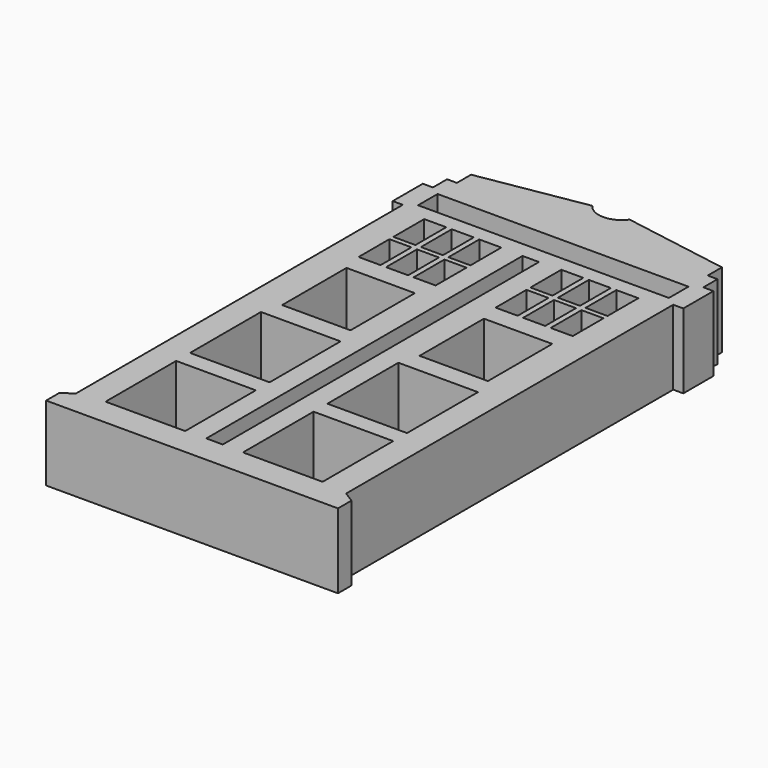
from build123d import *

# Parameters (mm, degrees)
F0_W     = 6.217202
F0_H     = 6.892985
F0_H_2   = 6.926774
F0_W_2   = 5.338685
F0_H_3   = 6.28478
F0_W_3   = 6.217203
F0_W_4   = 1.721302
F0_H_4   = 3.012278
F0_W_5   = 1.721301
F1_DEPTH = 5.842
F2_DEPTH = 3.175


with BuildPart() as f1:
    # F0 (on Top) → F1 (new body)
    with BuildSketch(Plane.XY):
        with BuildLine():
            ThreePointArc((-3.276264, 19.408396), (-4.734943, 18.662064), (-6.193622, 19.408396))
            Line((-6.193622, 19.408396), (-7.051337, 19.263395))
            ThreePointArc((-7.051337, 19.263395), (-4.734943, 17.844209), (-2.41855, 19.263395))
            Line((-2.41855, 19.263395), (-3.276264, 19.408396))
        make_face()
        with BuildLine():
            ThreePointArc((-2.41855, 19.263395), (-4.734943, 17.844209), (-7.051337, 19.263395))
            Line((-7.051337, 19.263395), (-14.532115, 17.998736))
            Line((-14.532115, 17.998736), (-14.532115, 16.612969))
            Line((-14.532115, 16.612969), (-15.296676, 16.612969))
            Line((-15.296676, 16.612969), (-15.296676, 15.227202))
            Line((-15.296676, 15.227202), (-16.085131, 15.227202))
            Line((-16.085131, 15.227202), (-16.085131, 12.288421))
            Line((-16.085131, 12.288421), (-15.296676, 12.288421))
            Line((-15.296676, 12.288421), (-15.296676, -19.651944))
            Line((-15.296676, -19.651944), (-16.13486, -20.17758))
            Line((-16.13486, -20.17758), (-16.13486, -21.491669))
            Line((-16.13486, -21.491669), (-4.734943, -21.491669))
            Line((-4.734943, -21.491669), (6.664974, -21.491669))
            Line((6.664974, -21.491669), (6.664974, -20.17758))
            Line((6.664974, -20.17758), (5.82679, -19.651944))
            Line((5.82679, -19.651944), (5.82679, 12.288421))
            Line((5.82679, 12.288421), (6.615245, 12.288421))
            Line((6.615245, 12.288421), (6.615245, 15.227202))
            Line((6.615245, 15.227202), (5.82679, 15.227202))
            Line((5.82679, 15.227202), (5.82679, 16.612969))
            Line((5.82679, 16.612969), (5.062229, 16.612969))
            Line((5.062229, 16.612969), (5.062229, 17.998736))
            Line((5.062229, 17.998736), (-2.41855, 19.263395))
        make_face()
        with Locations((-10.101553, -15.893294)):
            Rectangle(F0_W, F0_H, mode=Mode.SUBTRACT)
        with Locations((-10.101553, -7.63185)):
            Rectangle(F0_W, F0_H_2, mode=Mode.SUBTRACT)
        with Locations((-10.101553, 0.494439)):
            Rectangle(F0_W_2, F0_H_3, mode=Mode.SUBTRACT)
        with Locations((0.631666, -15.893294)):
            Rectangle(F0_W_3, F0_H, mode=Mode.SUBTRACT)
        with Locations((0.631666, -7.63185)):
            Rectangle(F0_W_3, F0_H_2, mode=Mode.SUBTRACT)
        Polygon((-5.378293, 11.577819), (-4.734943, 11.577819), (-4.091593, 11.577819), (-4.091593, -19.293765), (-4.734943, -19.293765), (-5.378293, -19.293765), align=None, mode=Mode.SUBTRACT)
        with Locations((0.631666, 0.494439)):
            Rectangle(F0_W_2, F0_H_3, mode=Mode.SUBTRACT)
        with Locations((-12.23792, 6.726886)):
            Rectangle(F0_W_4, F0_H_4, mode=Mode.SUBTRACT)
        with Locations((-12.23792, 10.126886)):
            Rectangle(F0_W_4, F0_H_4, mode=Mode.SUBTRACT)
        with Locations((-10.08792, 6.726886)):
            Rectangle(F0_W_4, F0_H_4, mode=Mode.SUBTRACT)
        with Locations((-7.93792, 6.726886)):
            Rectangle(F0_W_4, F0_H_4, mode=Mode.SUBTRACT)
        with Locations((-10.08792, 10.126886)):
            Rectangle(F0_W_4, F0_H_4, mode=Mode.SUBTRACT)
        with Locations((-7.93792, 10.126886)):
            Rectangle(F0_W_4, F0_H_4, mode=Mode.SUBTRACT)
        with Locations((-1.531967, 6.726886)):
            Rectangle(F0_W_5, F0_H_4, mode=Mode.SUBTRACT)
        with Locations((0.618033, 6.726886)):
            Rectangle(F0_W_5, F0_H_4, mode=Mode.SUBTRACT)
        with Locations((-1.531967, 10.126886)):
            Rectangle(F0_W_5, F0_H_4, mode=Mode.SUBTRACT)
        with Locations((0.618033, 10.126886)):
            Rectangle(F0_W_5, F0_H_4, mode=Mode.SUBTRACT)
        with Locations((2.768033, 6.726886)):
            Rectangle(F0_W_5, F0_H_4, mode=Mode.SUBTRACT)
        with Locations((2.768033, 10.126886)):
            Rectangle(F0_W_5, F0_H_4, mode=Mode.SUBTRACT)
        Polygon((-14.532275, 14.731877), (-4.734943, 14.731877), (5.062388, 14.731877), (5.062388, 12.823218), (-4.734943, 12.823218), (-14.532275, 12.823218), align=None, mode=Mode.SUBTRACT)
    extrude(amount=F1_DEPTH)

    # F0 (on Top) → F2 (join)
    with BuildSketch(Plane.XY):
        with BuildLine():
            Line((-5.667986, 21.749863), (-4.734943, 22.132145))
            Line((-4.734943, 22.132145), (-3.8019, 21.749863))
            Line((-3.8019, 21.749863), (-3.8019, 20.053495))
            Line((-3.8019, 20.053495), (-3.276264, 20.053495))
            Line((-3.276264, 20.053495), (-3.276264, 19.408396))
            Line((-3.276264, 19.408396), (-2.41855, 19.263395))
            ThreePointArc((-2.41855, 19.263395), (-2.206839, 19.837012), (-2.134943, 20.444209))
            ThreePointArc((-2.134943, 20.444209), (-5.34214, 22.972313), (-7.051337, 19.263395))
            Line((-7.051337, 19.263395), (-6.193622, 19.408396))
            Line((-6.193622, 19.408396), (-6.193622, 20.053495))
            Line((-6.193622, 20.053495), (-5.667986, 20.053495))
            Line((-5.667986, 20.053495), (-5.667986, 21.749863))
        make_face()
    extrude(amount=F2_DEPTH)


solid = f1.part
